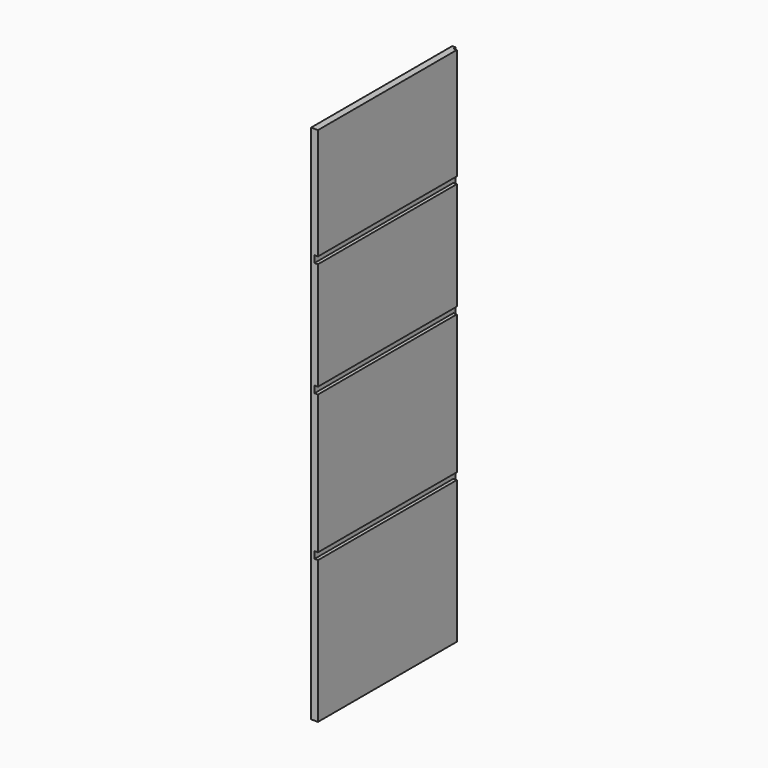
from build123d import *

# Parameters (mm, degrees)
F1_DEPTH = 406.35
F2_W     = 7.94
F2_H     = 6.35
F3_DEPTH = 1200.001


with BuildPart() as f1:
    # F0 (on Front) → F1 (new body)
    with BuildSketch(Plane.XZ):
        Polygon((-29.519806, 967.791521), (-45.394806, 967.791521), (-45.394806, -232.208479), (-29.519806, -232.208479), (-29.519806, 95.731521), (-37.459806, 95.731521), (-37.459806, 111.606521), (-29.519806, 111.606521), (-29.519806, 431.606521), (-37.459806, 431.606521), (-37.459806, 447.481521), (-29.519806, 447.481521), (-29.519806, 695.731521), (-37.459806, 695.731521), (-37.459806, 711.606521), (-29.519806, 711.606521), align=None)
    extrude(amount=F1_DEPTH)

    # F2 (on face) → F3 (cut, through all)
    with BuildSketch(Plane.XY.offset(967.791521)):
        with Locations((-33.489806, -3.175)):
            Rectangle(F2_W, F2_H)
    extrude(amount=-F3_DEPTH, mode=Mode.SUBTRACT)


solid = f1.part
